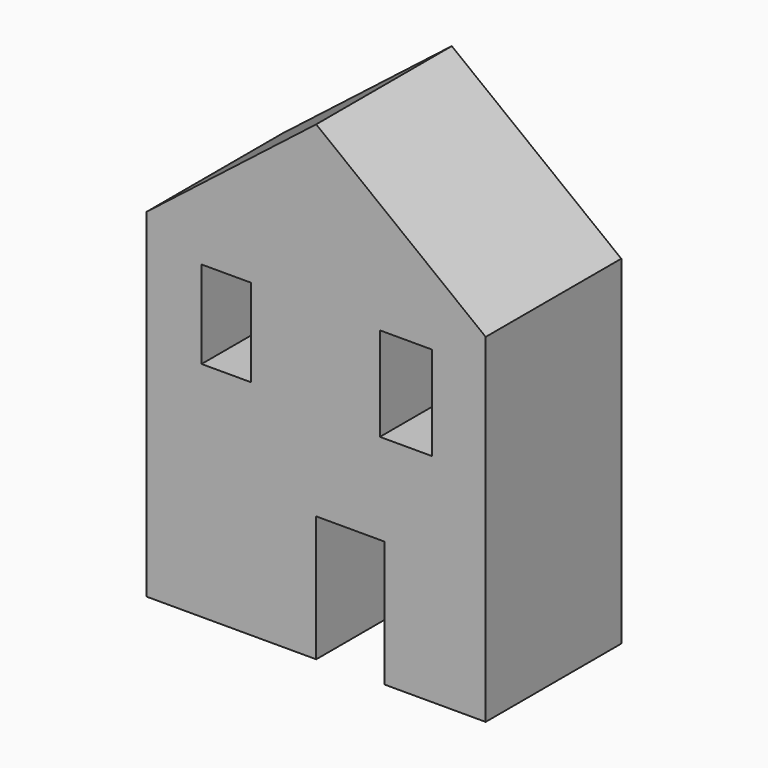
from build123d import *

# Parameters (mm, degrees)
F1_DEPTH = 25.4


with BuildPart() as f1:
    # F0 (on Front) → F1 (new body)
    with BuildSketch(Plane.XZ):
        Polygon((25.4, -25.4), (25.4, 25.4), (-25.4, 25.4), (-25.4, -25.4), (0, -25.4), (0, -6.536582), (10.239619, -6.536582), (10.239619, -16.214322), (10.239619, -25.4), align=None)
        Polygon((-13.493889, 7.98003), (-17.180648, 7.98003), (-17.180648, 14.547069), (-17.180648, 21.114107), (-13.493889, 21.114107), (-9.807131, 21.114107), (-9.807131, 14.547069), (-9.807131, 7.98003), align=None, mode=Mode.SUBTRACT)
        Polygon((13.46553, 7.05834), (9.548349, 7.05834), (9.548349, 14.086224), (9.548349, 21.114107), (13.46553, 21.114107), (17.382711, 21.114107), (17.382711, 14.086224), (17.382711, 7.05834), align=None, mode=Mode.SUBTRACT)
        Polygon((-25.4, 25.4), (25.4, 25.4), (0, 45.190681), align=None)
    extrude(amount=F1_DEPTH)


solid = f1.part
